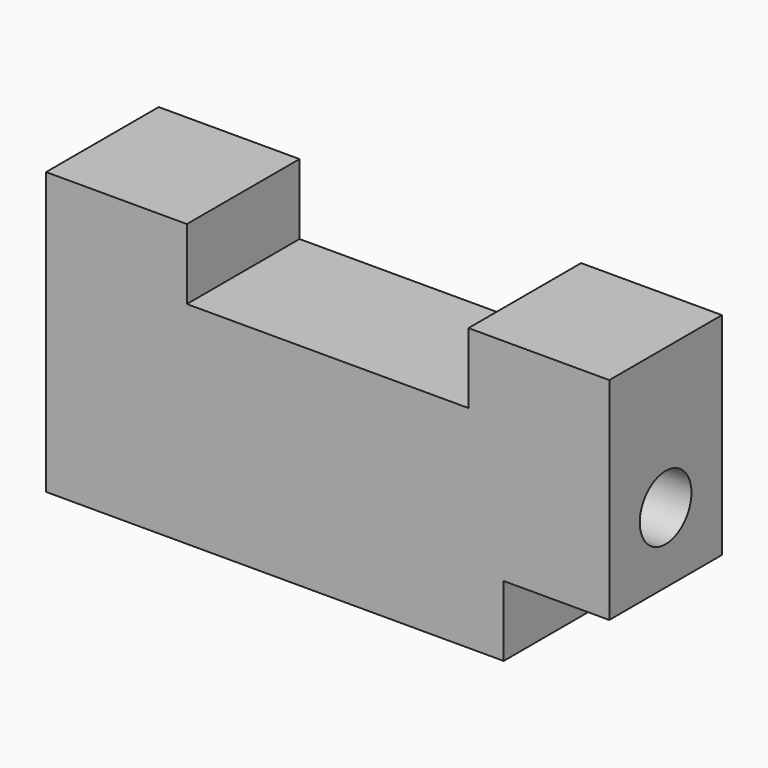
from build123d import *

# Parameters (mm, degrees)
F1_DEPTH = 25.4
F2_R     = 5.824061
F3_DEPTH = 101.601


with BuildPart() as f1:
    # F0 (on Front) → F1 (new body)
    with BuildSketch(Plane.XZ):
        Polygon((-25.4, 25.4), (-50.8, 25.4), (-50.8, -25.4), (31.75, -25.4), (31.75, -12.7), (50.8, -12.7), (50.8, 25.4), (25.4, 25.4), (25.4, 12.7), (-25.4, 12.7), align=None)
    extrude(amount=F1_DEPTH)

    # F2 (on face) → F3 (cut, through all)
    with BuildSketch(Plane.YZ.offset(50.8)):
        with Locations((-12.7, 0)):
            Circle(F2_R)
    extrude(amount=-F3_DEPTH, mode=Mode.SUBTRACT)


solid = f1.part
